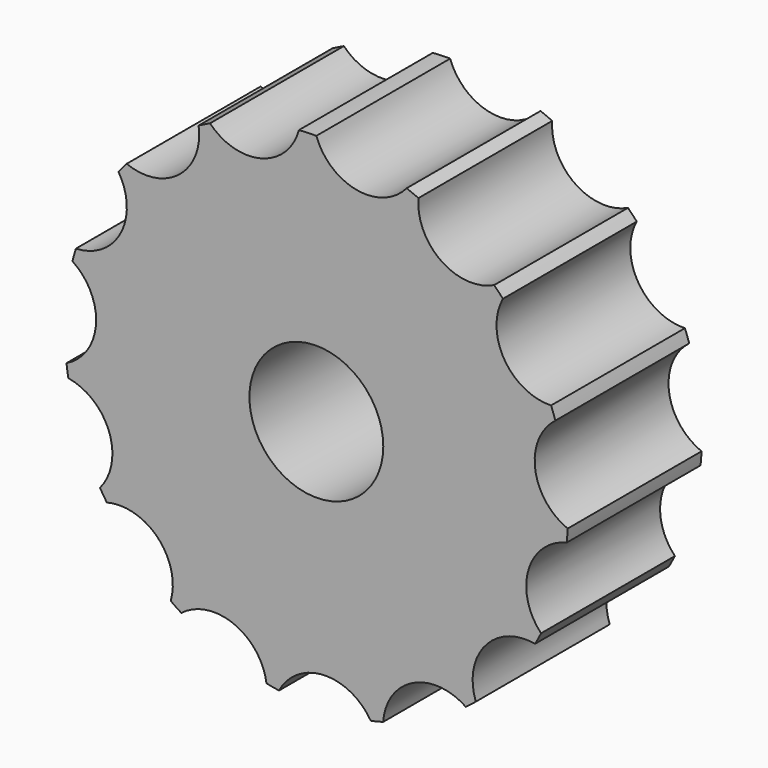
from build123d import *

# Parameters (mm, degrees)
F0_R     = 2.54
F1_DEPTH = 6.35


with BuildPart() as f1:
    # F0 (on Front) → F1 (new body)
    with BuildSketch(Plane.XZ):
        with BuildLine():
            ThreePointArc((-4.468796, 8.440379), (-5.206836, 6.566125), (-7.199962, 6.274607))
            ThreePointArc((-7.199962, 6.274607), (-7.356389, 6.090459), (-7.508107, 5.902412))
            ThreePointArc((-7.508107, 5.902412), (-7.422522, 3.889899), (-9.126103, 2.81503))
            ThreePointArc((-9.126103, 2.81503), (-9.194395, 2.583262), (-9.256802, 2.349841))
            ThreePointArc((-9.256802, 2.349841), (-8.362303, 0.545014), (-9.483499, -1.128441))
            ThreePointArc((-9.483499, -1.128441), (-9.451918, -1.367987), (-9.414286, -1.606659))
            ThreePointArc((-9.414286, -1.606659), (-7.864634, -2.893558), (-8.210717, -4.877936))
            ThreePointArc((-8.210717, -4.877936), (-8.08469, -5.084085), (-7.953489, -5.28698))
            ThreePointArc((-7.953489, -5.28698), (-6.015063, -5.834737), (-5.526542, -7.788933))
            ThreePointArc((-5.526542, -7.788933), (-5.327734, -7.926247), (-5.125515, -8.058488))
            ThreePointArc((-5.125515, -8.058488), (-3.131525, -7.772946), (-1.892375, -9.361039))
            ThreePointArc((-1.892375, -9.361039), (-1.654959, -9.405916), (-1.416485, -9.444772))
            ThreePointArc((-1.416485, -9.444772), (0.290311, -8.375014), (2.067085, -9.324017))
            ThreePointArc((2.067085, -9.324017), (2.302297, -9.268742), (2.536035, -9.207533))
            ThreePointArc((2.536035, -9.207533), (3.662244, -7.537447), (5.67122, -7.684231))
            ThreePointArc((5.67122, -7.684231), (5.863796, -7.538304), (6.052619, -7.387553))
            ThreePointArc((6.052619, -7.387553), (6.40465, -5.404221), (8.300493, -4.723552))
            ThreePointArc((8.300493, -4.723552), (8.417331, -4.51206), (8.52878, -4.297679))
            ThreePointArc((8.52878, -4.297679), (8.04612, -2.342028), (9.502942, -0.950913))
            ThreePointArc((9.502942, -0.950913), (9.523956, -0.710209), (9.538875, -0.46905))
            ThreePointArc((9.538875, -0.46905), (8.304491, 1.122751), (9.071869, 2.985185))
            ThreePointArc((9.071869, 2.985185), (8.993448, 3.213725), (8.909271, 3.440207))
            ThreePointArc((8.909271, 3.440207), (7.13535, 4.394533), (7.081375, 6.408141))
            ThreePointArc((7.081375, 6.408141), (6.916999, 6.585231), (6.748196, 6.758105))
            ThreePointArc((6.748196, 6.758105), (4.739669, 6.91091), (3.873618, 8.72956))
            ThreePointArc((3.873618, 8.72956), (3.651543, 8.824759), (3.427131, 8.91431))
            ThreePointArc((3.427131, 8.91431), (1.529255, 8.239328), (0, 9.5504))
            ThreePointArc((0, 9.5504), (-0.330856, 9.544667), (-0.661315, 9.527476))
            ThreePointArc((-0.661315, 9.527476), (-2.096114, 8.113658), (-4.036173, 8.655602))
            ThreePointArc((-4.036173, 8.655602), (-4.253846, 8.550727), (-4.468796, 8.440379))
        make_face()
        Circle(F0_R, mode=Mode.SUBTRACT)
    extrude(amount=F1_DEPTH)


solid = f1.part
